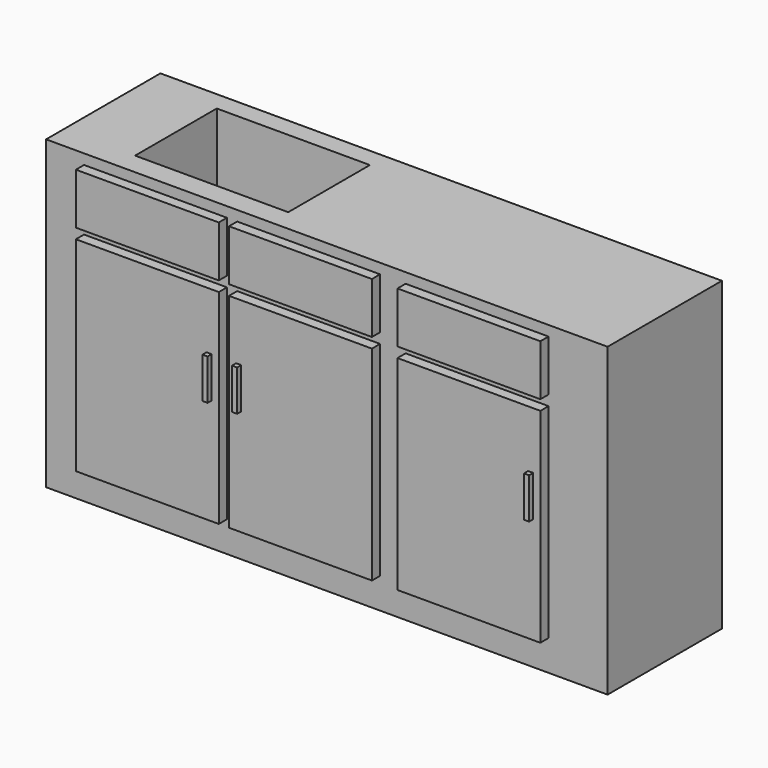
from build123d import *

# Parameters (mm, degrees)
F0_W     = 1676.4
F0_H     = 914.4
F1_DEPTH = 426.72
F2_W     = 426.72
F2_H     = 609.6
F2_H_2   = 152.4
F3_DEPTH = 30.48
F4_W     = 15.24
F4_H     = 121.92
F5_DEPTH = 45.72
F6_W     = 457.2
F6_H     = 304.8
F7_DEPTH = 213.36


with BuildPart() as f1:
    # F0 (on Front) → F1 (new body)
    with BuildSketch(Plane.XZ):
        with Locations((2e-06, 48.286399)):
            Rectangle(F0_W, F0_H)
    extrude(amount=F1_DEPTH)

    # F2 (on face) → F3 (join)
    with BuildSketch(Plane.XZ.offset(426.72)):
        with Locations((-511.561048, -12.673601)):
            Rectangle(F2_W, F2_H)
        with Locations((-54.361048, -12.673601)):
            Rectangle(F2_W, F2_H)
        with Locations((448.558952, -12.673601)):
            Rectangle(F2_W, F2_H)
        with Locations((-511.561048, 398.806399)):
            Rectangle(F2_W, F2_H_2)
        with Locations((-54.361048, 398.806399)):
            Rectangle(F2_W, F2_H_2)
        with Locations((448.558952, 398.806399)):
            Rectangle(F2_W, F2_H_2)
    extrude(amount=F3_DEPTH)

    # F4 (on face) → F5 (join)
    with BuildSketch(Plane.XZ.offset(426.72)):
        with Locations((-327.157048, 60.96)):
            Rectangle(F4_W, F4_H)
        with Locations((-238.765048, 60.96)):
            Rectangle(F4_W, F4_H)
        with Locations((632.962952, 61.087999)):
            Rectangle(F4_W, F4_H)
    extrude(amount=F5_DEPTH)

    # F6 (on face) → F7 (cut)
    with BuildSketch(Plane.XY.offset(505.486399)):
        with Locations((-396.239998, -208.883211)):
            Rectangle(F6_W, F6_H)
    extrude(amount=-F7_DEPTH, mode=Mode.SUBTRACT)


solid = f1.part
